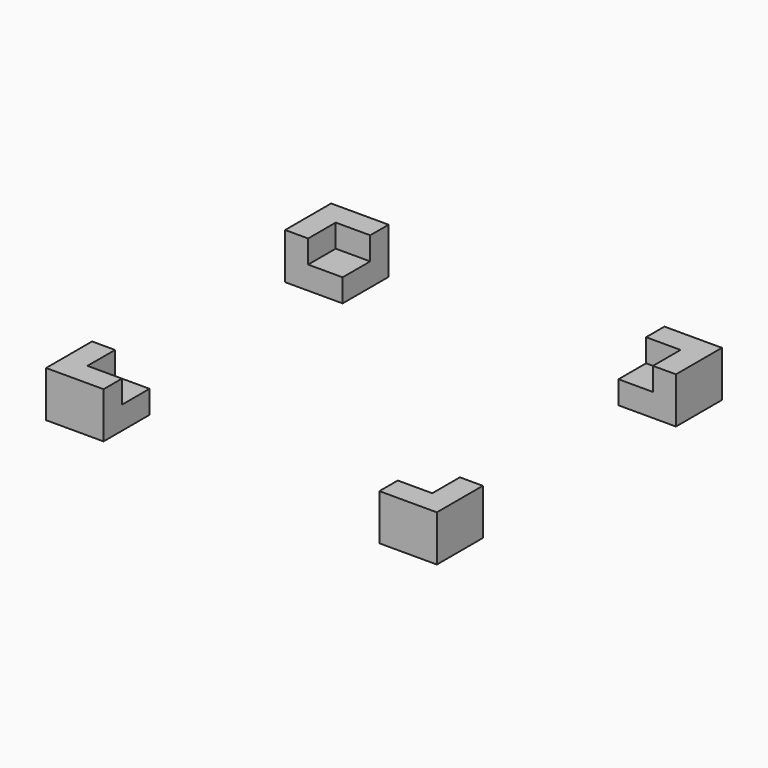
from build123d import *

# Parameters (mm, degrees)
BOX003_W     = 24
BOX003_H     = 31
BOX003_DEPTH = 10
BOX002_W     = 34
BOX002_H     = 21
BOX002_DEPTH = 10
BOX_W        = 30
BOX_H        = 27
BOX_DEPTH    = 3
BOX001_W     = 34
BOX001_H     = 31
BOX001_DEPTH = 4


with BuildPart() as cube002:
    # Box003 → Box003 (new body)
    with BuildSketch(Plane(origin=(5, 0, 0), x_dir=(1, 0, 0), z_dir=(0, 0, 1))):
        with Locations((12, 15.5)):
            Rectangle(BOX003_W, BOX003_H)
    extrude(amount=BOX003_DEPTH)


with BuildPart() as cube001:
    # Box002 → Box002 (new body)
    with BuildSketch(Plane(origin=(0, 5, 0), x_dir=(1, 0, 0), z_dir=(0, 0, 1))):
        with Locations((17, 10.5)):
            Rectangle(BOX002_W, BOX002_H)
    extrude(amount=BOX002_DEPTH)


with BuildPart() as expansionmodule:
    # Box → Box (new body)
    with BuildSketch(Plane(origin=(2, 2, 2), x_dir=(1, 0, 0), z_dir=(0, 0, 1))):
        with Locations((15, 13.5)):
            Rectangle(BOX_W, BOX_H)
    extrude(amount=BOX_DEPTH)


with BuildPart() as cut002:
    # Box001 → Box001 (new body)
    with BuildSketch(Plane.XY):
        with Locations((17, 15.5)):
            Rectangle(BOX001_W, BOX001_H)
    extrude(amount=BOX001_DEPTH)

    # Cut: cut Expansionmodule
    add(expansionmodule.part, mode=Mode.SUBTRACT)

    # Cut001: cut Cube001
    add(cube001.part, mode=Mode.SUBTRACT)

    # Cut002: cut Cube002
    add(cube002.part, mode=Mode.SUBTRACT)


solid = cut002.part
